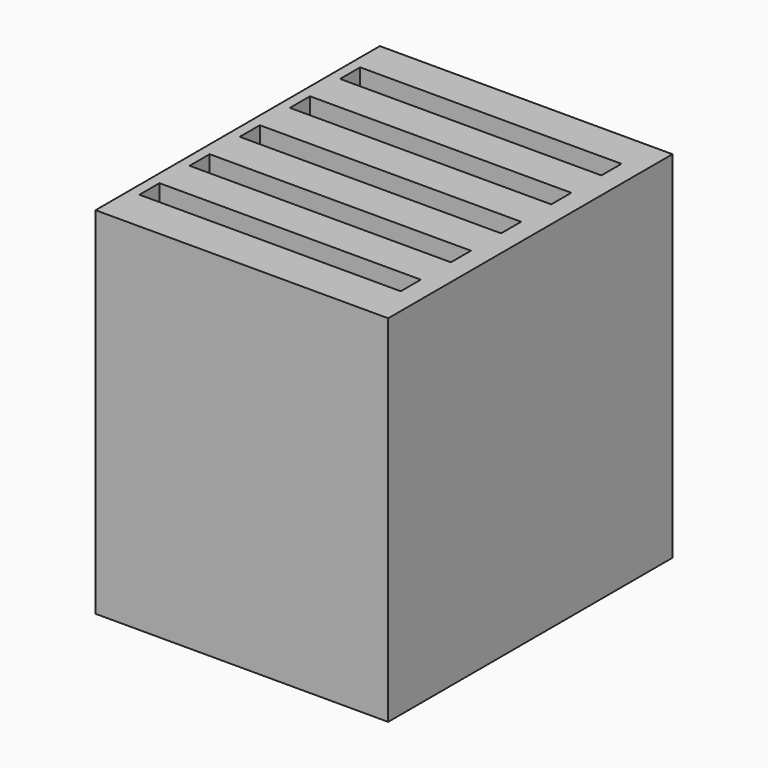
from build123d import *

# Parameters (mm, degrees)
F0_W     = 14
F0_H     = 17
F1_DEPTH = 17
F2_W     = 12.5
F2_H     = 1.2
F3_DEPTH = 14


with BuildPart() as f1:
    # F0 (on Front) → F1 (new body)
    with BuildSketch(Plane.XZ):
        with Locations((7, 8.5)):
            Rectangle(F0_W, F0_H)
    extrude(amount=-F1_DEPTH)

    # F2 (on face) → F3 (cut)
    with BuildSketch(Plane.XY.offset(17)):
        with Locations((6.75, 2.6)):
            Rectangle(F2_W, F2_H)
        with Locations((6.75, 5.6)):
            Rectangle(F2_W, F2_H)
        with Locations((6.75, 8.6)):
            Rectangle(F2_W, F2_H)
        with Locations((6.75, 11.6)):
            Rectangle(F2_W, F2_H)
        with Locations((6.75, 14.6)):
            Rectangle(F2_W, F2_H)
    extrude(amount=-F3_DEPTH, mode=Mode.SUBTRACT)


solid = f1.part
